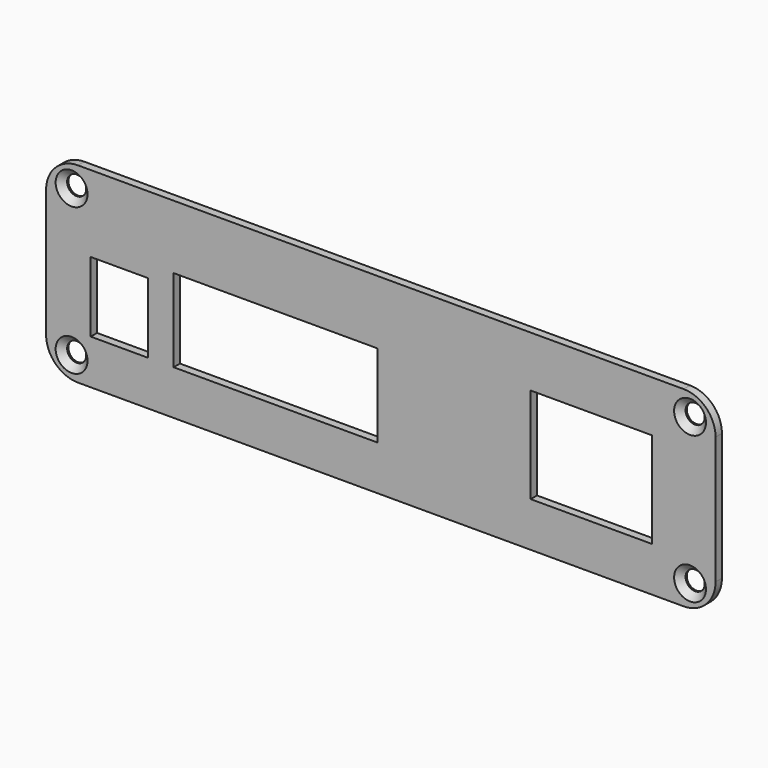
from build123d import *

# Parameters (mm, degrees)
F0_W     = 105
F0_H     = 30
F0_R     = 1.5
F0_W_2   = 9
F0_H_2   = 11
F0_W_3   = 32
F0_H_3   = 13
F0_W_4   = 19
F0_H_4   = 15
F1_DEPTH = 1.25
F2_R     = 5
F3_SIZE  = 1


with BuildPart() as f1:
    # F0 (on Front) → F1 (new body)
    with BuildSketch(Plane.XZ):
        with Locations((0.5, -4.707695)):
            Rectangle(F0_W, F0_H)
        with Locations((-48, -16.207695)):
            Circle(F0_R, mode=Mode.SUBTRACT)
        with Locations((-40.5, -7.207695)):
            Rectangle(F0_W_2, F0_H_2, mode=Mode.SUBTRACT)
        with Locations((-16, -6.207695)):
            Rectangle(F0_W_3, F0_H_3, mode=Mode.SUBTRACT)
        with Locations((49, -16.207695)):
            Circle(F0_R, mode=Mode.SUBTRACT)
        with Locations((33.5, -5.207695)):
            Rectangle(F0_W_4, F0_H_4, mode=Mode.SUBTRACT)
        with Locations((-48, 6.792305)):
            Circle(F0_R, mode=Mode.SUBTRACT)
        with Locations((49, 6.792305)):
            Circle(F0_R, mode=Mode.SUBTRACT)
    extrude(amount=F1_DEPTH)

    # F2
    f2_edges = [f1.edges().sort_by_distance(p)[0] for p in [
        (53, -0.625, 10.292305),
        (53, -0.625, -19.707695),
        (-52, -0.625, -19.707695),
        (-52, -0.625, 10.292305),
    ]]
    fillet(f2_edges, radius=F2_R)

    # F3
    f3_edges = [f1.edges().sort_by_distance(p)[0] for p in [
        (47.5, -1.25, 6.792305),
        (47.5, -1.25, -16.207695),
        (-49.5, -1.25, -16.207695),
        (-49.5, -1.25, 6.792305),
    ]]
    chamfer(f3_edges, length=F3_SIZE)


solid = f1.part
